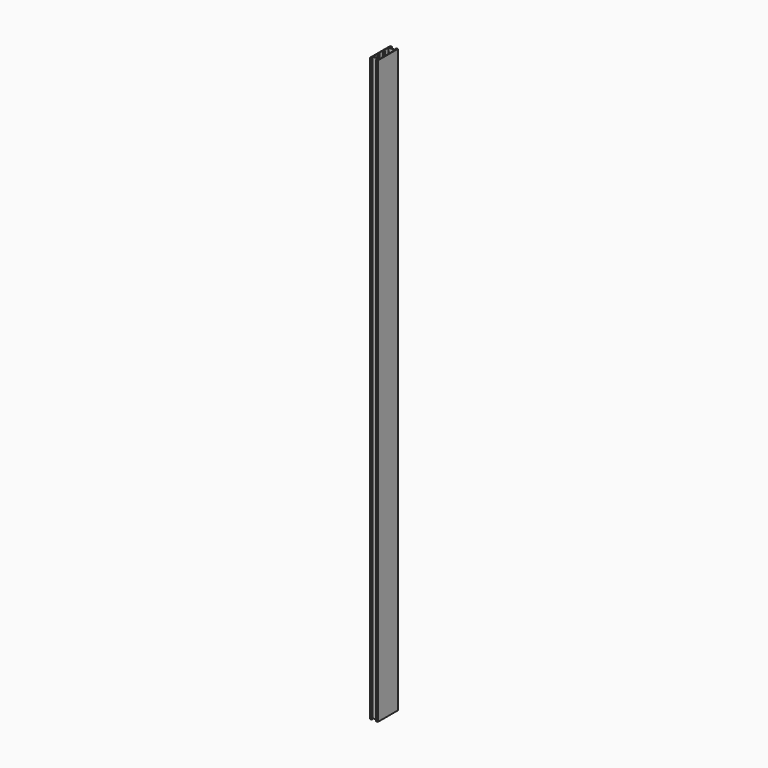
from build123d import *

# Parameters (mm, degrees)
F1_DEPTH = 1500


with BuildPart() as f1:
    # F0 (on Top) → F1 (new body)
    with BuildSketch(Plane.XY):
        Polygon((-5, 30.5), (-5, 32), (-10, 32), (-10, -32), (-5, -32), (-5, -30.5), (-8.5, -30.5), (-8.5, -26), (8.5, -26), (8.5, -30.5), (5, -30.5), (5, -32), (10, -32), (10, 32), (5, 32), (5, 30.5), (8.5, 30.5), (8.5, 26), (-8.5, 26), (-8.5, 30.5), align=None)
        Polygon((-8.5, 9.5), (-8.5, 24.5), (8.5, 24.5), (8.5, 9.5), (5.5, 9.5), (5.5, 7.5), (8.5, 7.5), (8.5, -7.5), (5.5, -7.5), (5.5, -9.5), (8.5, -9.5), (8.5, -24.5), (-8.5, -24.5), (-8.5, -9.5), (-5.5, -9.5), (-5.5, -7.5), (-8.5, -7.5), (-8.5, 7.5), (-5.5, 7.5), (-5.5, 9.5), align=None, mode=Mode.SUBTRACT)
    extrude(amount=F1_DEPTH)


solid = f1.part
